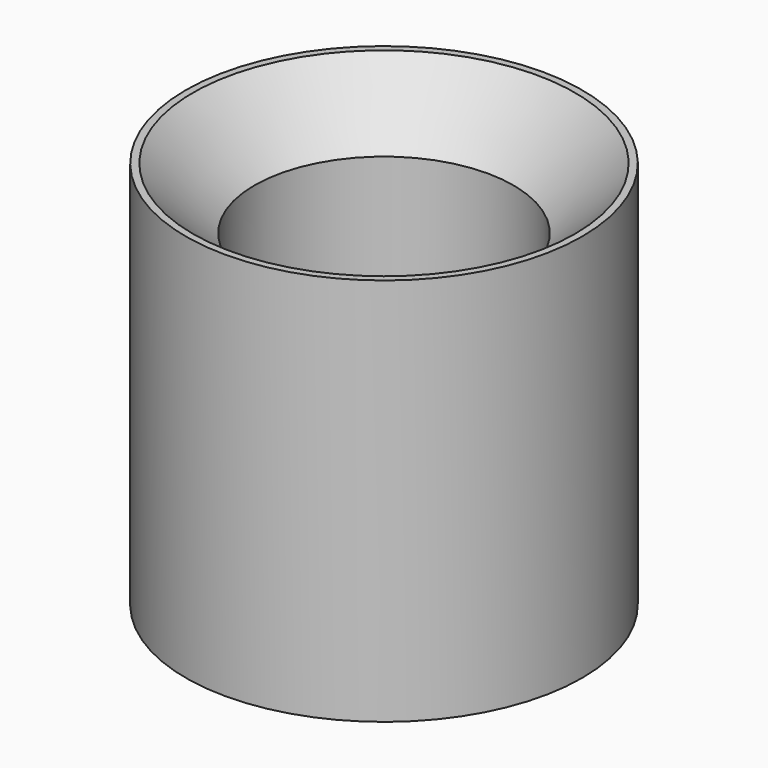
from build123d import *

# Parameters (mm, degrees)
CYLINDER001_R     = 4
CYLINDER001_DEPTH = 12
CYLINDER_R        = 6.12
CYLINDER_DEPTH    = 12
CHAMFER_SIZE      = 1.9


with BuildPart() as cilindro001:
    # Cylinder001 → Cylinder001 (new body)
    with BuildSketch(Plane.XY):
        Circle(CYLINDER001_R)
    extrude(amount=CYLINDER001_DEPTH)


with BuildPart() as chamfer_body:
    # Cylinder → Cylinder (new body)
    with BuildSketch(Plane.XY):
        Circle(CYLINDER_R)
    extrude(amount=CYLINDER_DEPTH)

    # Cut: cut Cilindro001
    add(cilindro001.part, mode=Mode.SUBTRACT)

    # Chamfer
    chamfer_edges = [chamfer_body.edges().sort_by_distance(p)[0] for p in [
        (-4, 0, 12),
    ]]
    chamfer(chamfer_edges, length=CHAMFER_SIZE)


solid = chamfer_body.part
